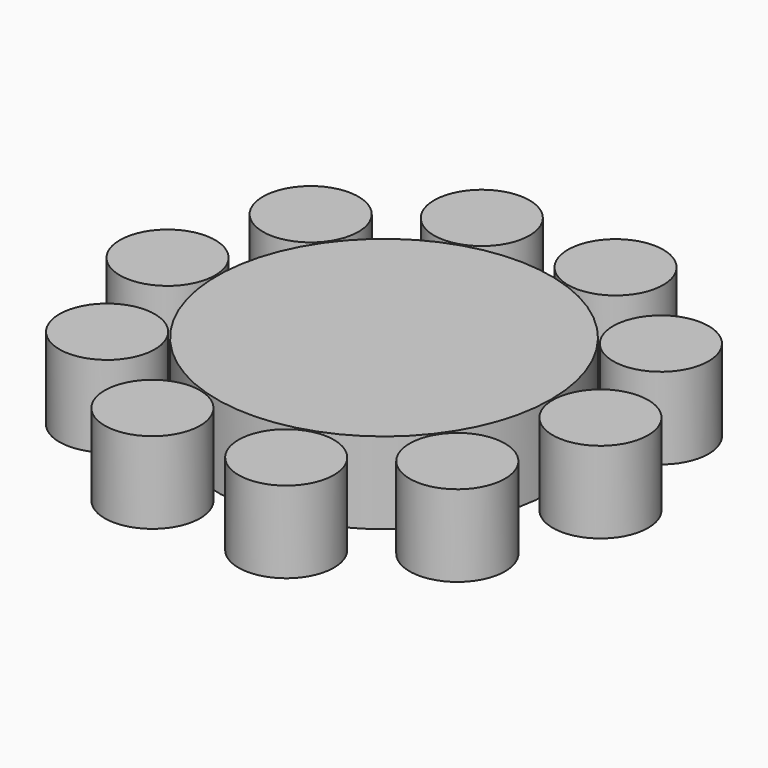
from build123d import *

# Parameters (mm, degrees)
F0_R     = 51.2025718528
F1_DEPTH = 25
F0_R_2   = 14.6142101053
F2_COUNT = 10


with BuildPart() as f1:
    # F0 (on Top) → F1 (new body)
    with BuildSketch(Plane.XY):
        Circle(F0_R)
    extrude(amount=F1_DEPTH)


with BuildPart() as f1b:
    # F0 (on Top) → F1, piece 2 (new body)
    with BuildSketch(Plane.XY):
        with Locations((66.317461431, 0)):
            Circle(F0_R_2)
    extrude(amount=F1_DEPTH)


with BuildPart() as f2_1:
    # F2: instance of F1b
    add(f1b.part.rotate(Axis((0, 0, 0), (0, 0, -1)), 1 * 360 / F2_COUNT))


with BuildPart() as f2_2:
    # F2: instance of F1b
    add(f1b.part.rotate(Axis((0, 0, 0), (0, 0, -1)), 2 * 360 / F2_COUNT))


with BuildPart() as f2_3:
    # F2: instance of F1b
    add(f1b.part.rotate(Axis((0, 0, 0), (0, 0, -1)), 3 * 360 / F2_COUNT))


with BuildPart() as f2_4:
    # F2: instance of F1b
    add(f1b.part.rotate(Axis((0, 0, 0), (0, 0, -1)), 4 * 360 / F2_COUNT))


with BuildPart() as f2_5:
    # F2: instance of F1b
    add(f1b.part.rotate(Axis((0, 0, 0), (0, 0, -1)), 5 * 360 / F2_COUNT))


with BuildPart() as f2_6:
    # F2: instance of F1b
    add(f1b.part.rotate(Axis((0, 0, 0), (0, 0, -1)), 6 * 360 / F2_COUNT))


with BuildPart() as f2_7:
    # F2: instance of F1b
    add(f1b.part.rotate(Axis((0, 0, 0), (0, 0, -1)), 7 * 360 / F2_COUNT))


with BuildPart() as f2_8:
    # F2: instance of F1b
    add(f1b.part.rotate(Axis((0, 0, 0), (0, 0, -1)), 8 * 360 / F2_COUNT))


with BuildPart() as f2_9:
    # F2: instance of F1b
    add(f1b.part.rotate(Axis((0, 0, 0), (0, 0, -1)), 9 * 360 / F2_COUNT))


solid = Compound([f1.part, f1b.part, f2_1.part, f2_2.part, f2_3.part, f2_4.part, f2_5.part, f2_6.part, f2_7.part, f2_8.part, f2_9.part])
